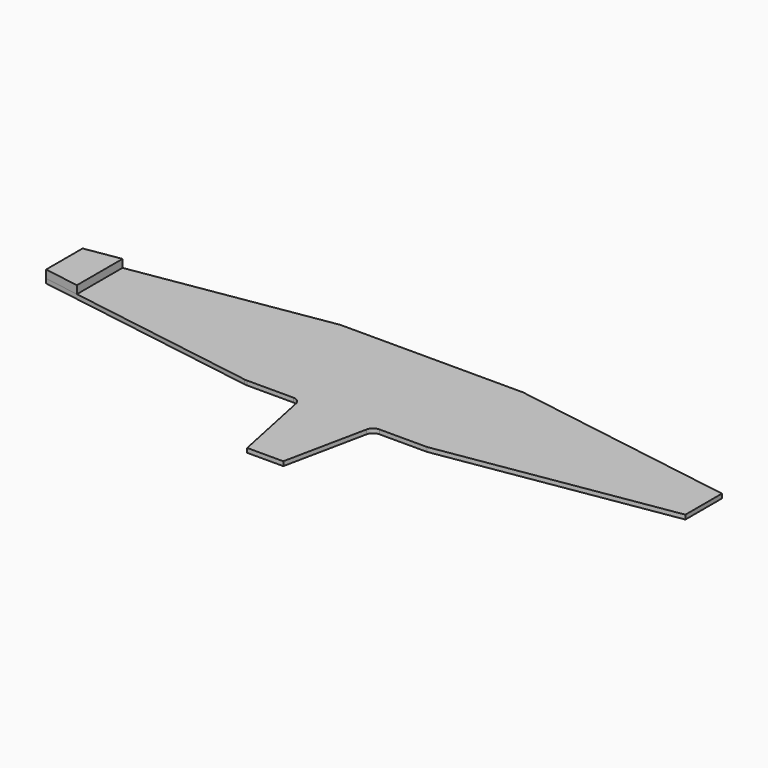
from build123d import *

# Parameters (mm, degrees)
F1_DEPTH = 12
F3_DEPTH = 22


with BuildPart() as f1:
    # F0 (on Top) → F1 (new body)
    with BuildSketch(Plane.XY):
        with BuildLine():
            Line((0, 165.461375), (-254, 165.461375))
            Line((-254, 165.461375), (-889, 63.5))
            Line((-889, 63.5), (-889, -63.5))
            Line((-889, -63.5), (-255.728297, -164.907859))
            ThreePointArc((-255.728297, -164.907859), (-252.260676, -165.322778), (-248.77107, -165.461375))
            Line((-248.77107, -165.461375), (-119.544164, -165.461375))
            ThreePointArc((-119.544164, -165.461375), (-105.662285, -170.394054), (-98.005393, -182.980151))
            Line((-98.005393, -182.980151), (-50.173886, -412.87983))
            Line((-50.173886, -412.87983), (0, -412.87983))
            Line((0, -412.87983), (0, -165.461375))
            Line((0, -165.461375), (0, 165.461375))
        make_face()
        with BuildLine():
            Line((254, 165.461375), (0, 165.461375))
            Line((0, 165.461375), (0, -165.461375))
            Line((0, -165.461375), (0, -412.87983))
            Line((0, -412.87983), (50.173886, -412.87983))
            Line((50.173886, -412.87983), (98.005393, -182.980151))
            ThreePointArc((98.005393, -182.980151), (105.662285, -170.394054), (119.544164, -165.461375))
            Line((119.544164, -165.461375), (252.271703, -165.461375))
            Line((252.271703, -165.461375), (889, -63.5))
            Line((889, -63.5), (889, 63.5))
            Line((889, 63.5), (254, 165.461375))
        make_face()
    extrude(amount=F1_DEPTH)

    # F2 (on face) → F3 (join)
    with BuildSketch(Plane.XY.offset(12)):
        Polygon((-889, -63.5), (-790.659543, -79.247577), (-790.659543, 79.290438), (-889, 63.5), align=None)
    extrude(amount=F3_DEPTH)


solid = f1.part
